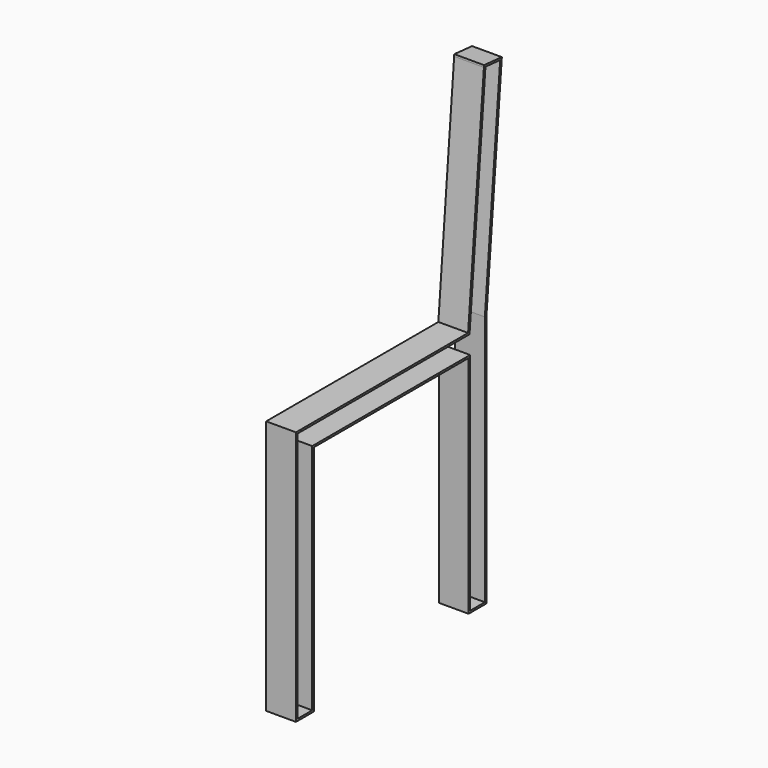
from build123d import *

# Parameters (mm, degrees)
F1_DEPTH = 50.8


with BuildPart() as f1:
    # F0 (on Right) → F1 (new body)
    with BuildSketch(Plane.YZ):
        Polygon((7.742018, -9.401204), (7.742018, -12.703204), (45.842018, -12.703204), (45.842018, -9.401204), (45.842018, 384.298796), (376.042018, 384.298796), (376.042018, 4.826), (376.042018, 0), (379.344018, 0), (414.142018, 0), (414.142018, 431.894088), (447.013809, 807.620389), (409.058791, 810.941023), (408.771003, 807.651588), (375.065751, 422.398796), (7.742018, 422.398796), (7.742018, 419.096796), align=None)
        Polygon((42.540018, -9.401204), (11.044018, -9.401204), (11.044018, 419.096796), (374.776864, 419.096796), (378.091477, 419.096796), (379.211095, 431.894088), (412.060438, 807.3638), (443.449104, 804.617647), (410.840018, 431.894088), (410.840018, 3.302), (379.344018, 3.302), (379.344018, 384.298796), (379.344018, 387.600796), (376.042018, 387.600796), (42.540018, 387.600796), (42.540018, 384.298796), align=None, mode=Mode.SUBTRACT)
    extrude(amount=F1_DEPTH)


solid = f1.part
